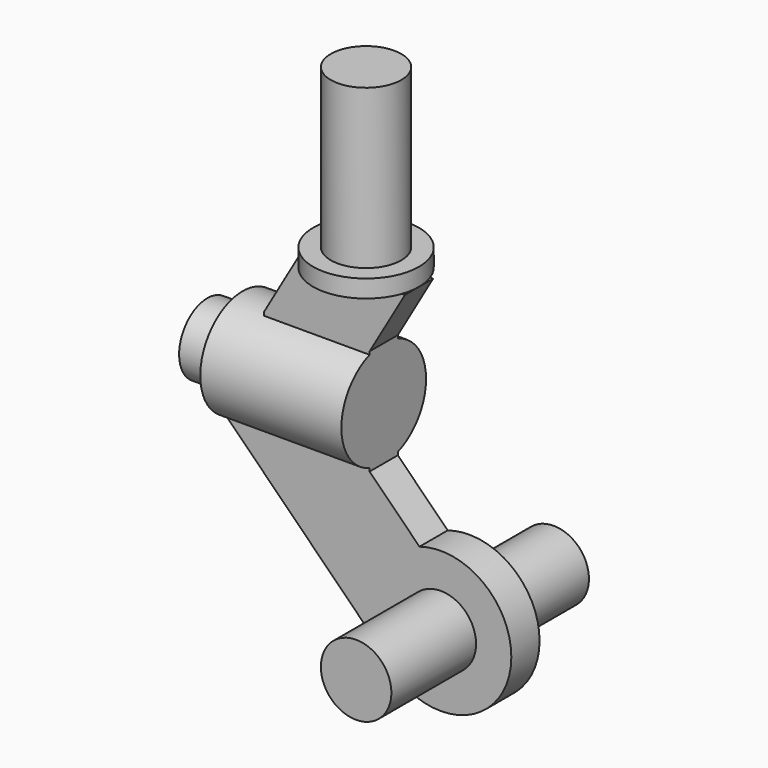
from build123d import *

# Parameters (mm, degrees)
F0_R     = 2.38125
F0_R_2   = 1.5875
F1_DEPTH = 0.79375
F2_DEPTH = 7.9375
F3_W     = 4.7625
F3_H     = 0.79375
F4_DEPTH = 0.79375
F3_W_2   = 6.35
F6_R     = 1.5875
F7_DEPTH = 4.7625
F8_R     = 1.5875
F9_DEPTH = 4.7625


with BuildPart() as f1:
    # F0 (on Top) → F1 (new body)
    with BuildSketch(Plane.XY):
        Circle(F0_R)
        Circle(F0_R_2, mode=Mode.SUBTRACT)
    extrude(amount=F1_DEPTH)

    # F0 (on Top) → F2 (join)
    with BuildSketch(Plane.XY):
        Circle(F0_R_2)
    extrude(amount=F2_DEPTH)

    # F3 (on Front) → F4 (join, symmetric)
    with BuildSketch(Plane.XZ):
        Polygon((2.38125, 0), (0, 0), (-2.38125, 0), (-3.96875, -2.749630657), (0.79375, -2.749630657), align=None)
        with Locations((-1.5875, -3.146505657)):
            Rectangle(F3_W, F3_H)
    extrude(amount=F4_DEPTH, both=True)



with BuildPart() as f4:
    # F3 (on Front) → F4, piece 2 (new body, symmetric)
    with BuildSketch(Plane.XZ):
        with Locations((-2.38125, -7.115255657)):
            Rectangle(F3_W_2, F3_H)
        with BuildLine():
            Line((3.0388140303, -9.7571946873), (0.79375, -7.512130657))
            Line((0.79375, -7.512130657), (-5.55625, -7.512130657))
            Line((-5.55625, -7.512130657), (1.1789420908, -14.2473227478))
            ThreePointArc((1.1789420908, -14.2473227478), (1.0634268399, -11.5692186432), (3.0388140303, -9.7571946873))
        make_face()
        with BuildLine():
            Line((1.1789420908, -14.2473227478), (3.0388140303, -9.7571946873))
            ThreePointArc((3.0388140303, -9.7571946873), (1.0634268399, -11.5692186432), (1.1789420908, -14.2473227478))
        make_face()
        with BuildLine():
            ThreePointArc((7.1717443556, -12.7842385409), (5.872803552, -10.2227883869), (3.0388140303, -9.7571946873))
            Line((3.0388140303, -9.7571946873), (1.1789420908, -14.2473227478))
            ThreePointArc((1.1789420908, -14.2473227478), (4.7497725122, -15.8686466844), (7.1717443556, -12.7842385409))
        make_face()
    extrude(amount=F4_DEPTH, both=True)


with BuildPart() as f1_1:
    add(f1.part)

    add(f4.part)  # F5 merges F4
    # F3 (on Front) → F5 (revolve)
    with BuildSketch(Plane.XZ):
        Polygon((-3.96875, -3.543380657), (-3.96875, -2.749630657), (-5.55625, -2.749630657), (-5.55625, -3.543380657), (-7.14375, -3.543380657), (-7.14375, -5.130880657), (-5.55625, -5.130880657), (0.79375, -5.130880657), (0.79375, -3.543380657), align=None)
        with Locations((-1.5875, -3.146505657)):
            Rectangle(F3_W, F3_H)
    revolve(axis=Axis((-2.38125, 0, -5.130880657), (1, 0, 0)))

    # F6 (on face) → F7 (join)
    with BuildSketch(Plane.XZ.offset(0.79375)):
        with Locations((3.9967443556, -12.7842385409)):
            Circle(F6_R)
    extrude(amount=F7_DEPTH)

    # F8 (on face) → F9 (join)
    with BuildSketch(Plane(origin=(0, 0.79375, 0), x_dir=(-1, 0, 0), z_dir=(0, 1, 0))):
        with Locations((-3.9967443556, -12.7842385409)):
            Circle(F8_R)
    extrude(amount=F9_DEPTH)


solid = f1_1.part
